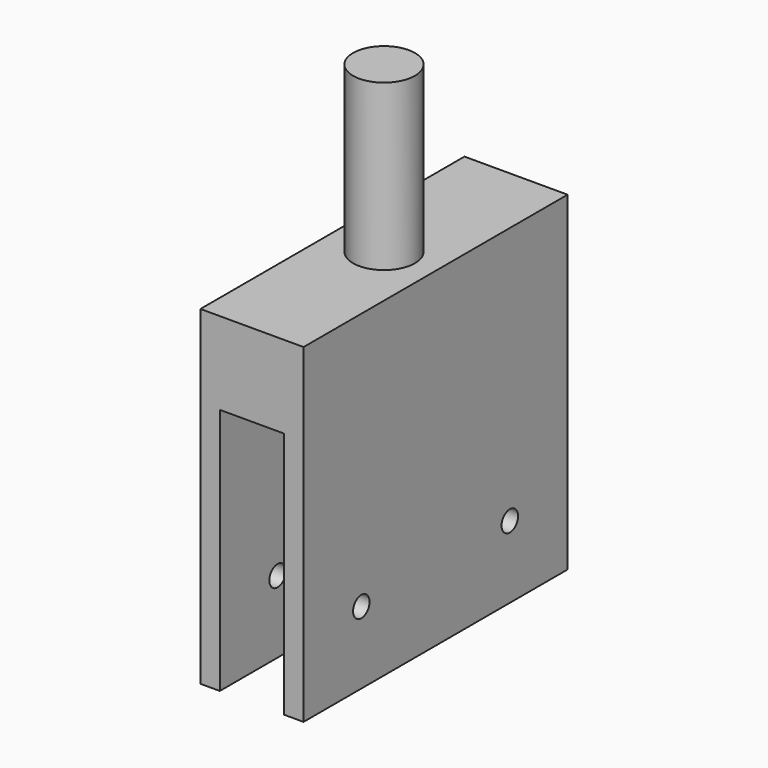
from build123d import *

# Parameters (mm, degrees)
F1_DEPTH = 80
F2_R     = 7.5
F3_DEPTH = 40
F4_R     = 2.5
F5_DEPTH = 50


with BuildPart() as f1:
    # F0 (on Front) → F1 (new body)
    with BuildSketch(Plane.XZ):
        Polygon((13.916367, 60.022387), (-11.083633, 60.022387), (-11.083633, -19.977613), (-6.383633, -19.977613), (-6.383633, 40.022387), (9.216367, 40.022387), (9.216367, -19.977613), (13.916367, -19.977613), align=None)
    extrude(amount=F1_DEPTH)

    # F2 (on face) → F3 (join)
    with BuildSketch(Plane.XY.offset(60.022387)):
        with Locations((1.416367, -40)):
            Circle(F2_R)
    extrude(amount=F3_DEPTH)

    # F4 (on face) → F5 (cut)
    with BuildSketch(Plane.YZ.offset(13.916367)):
        with Locations((-62.5, -2.477613)):
            Circle(F4_R)
        with Locations((-17.5, -2.477613)):
            Circle(F4_R)
    extrude(amount=-F5_DEPTH, mode=Mode.SUBTRACT)


solid = f1.part
